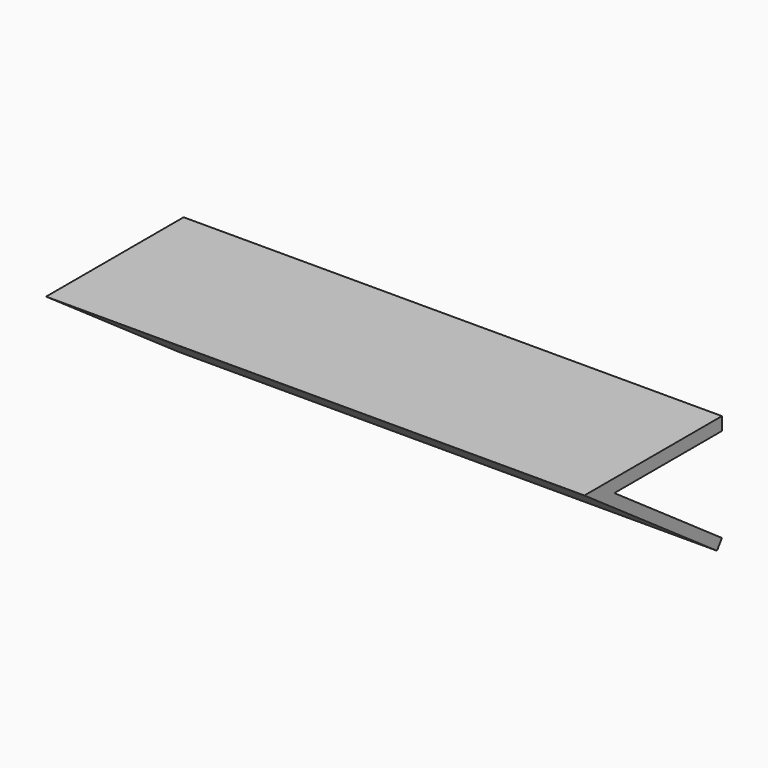
from build123d import *

# Parameters (mm, degrees)
F0_W     = 35
F0_H     = 3
F1_DEPTH = 123
F3_DEPTH = 123


with BuildPart() as f1:
    # F0 (on Right) → F1 (new body)
    with BuildSketch(Plane.YZ):
        with Locations((-17.5, 1.5)):
            Rectangle(F0_W, F0_H)
    extrude(amount=F1_DEPTH)

    # F2 (on face) → F3 (join, through all)
    with BuildSketch(Plane(origin=(0, 0, 0), x_dir=(0, -1, 0), z_dir=(-1, 0, 0))):
        Polygon((39.284444, 3), (35, 3), (0, -21.507264), (1.409539, -23.520294), (35, 0), align=None)
        Polygon((35, 0), (30.715556, 0), (0, -21.507264), (1.409539, -23.520294), align=None)
    extrude(amount=-F3_DEPTH)


solid = f1.part
